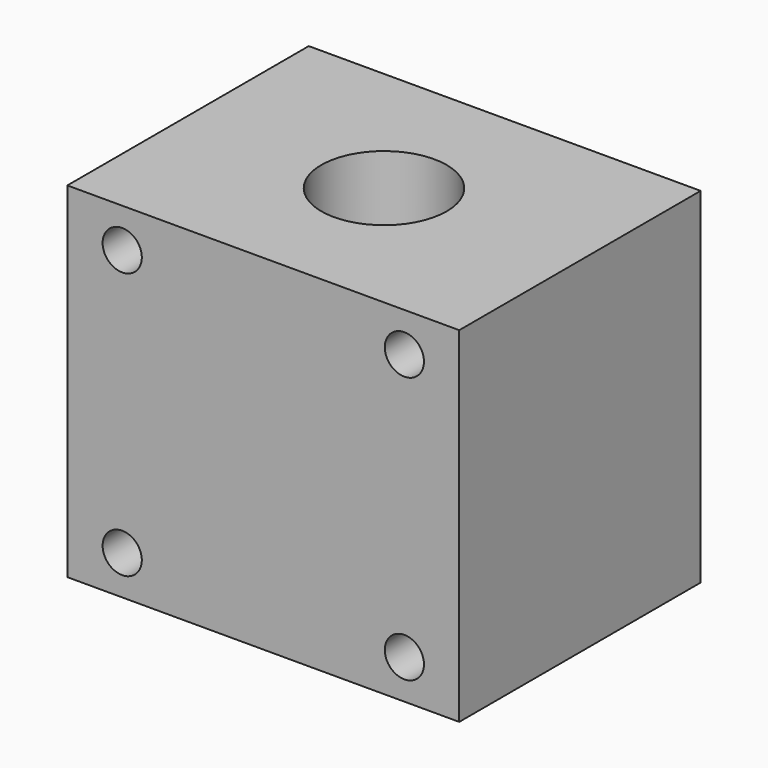
from build123d import *

# Parameters (mm, degrees)
F0_W     = 50
F0_H     = 38.5
F0_R     = 8
F1_DEPTH = 44
F2_R     = 2.5
F3_DEPTH = 38.5


with BuildPart() as f1:
    # F0 (on Top) → F1 (new body)
    with BuildSketch(Plane.XY):
        Rectangle(F0_W, F0_H)
        Circle(F0_R, mode=Mode.SUBTRACT)
    extrude(amount=F1_DEPTH)

    # F2 (on face) → F3 (cut)
    with BuildSketch(Plane(origin=(0, 19.25, 0), x_dir=(-1, 0, 0), z_dir=(0, 1, 0))):
        with Locations((18, 39)):
            Circle(F2_R)
        with Locations((18, 5)):
            Circle(F2_R)
        with Locations((-18, 39)):
            Circle(F2_R)
        with Locations((-18, 5)):
            Circle(F2_R)
    extrude(amount=-F3_DEPTH, mode=Mode.SUBTRACT)


solid = f1.part
